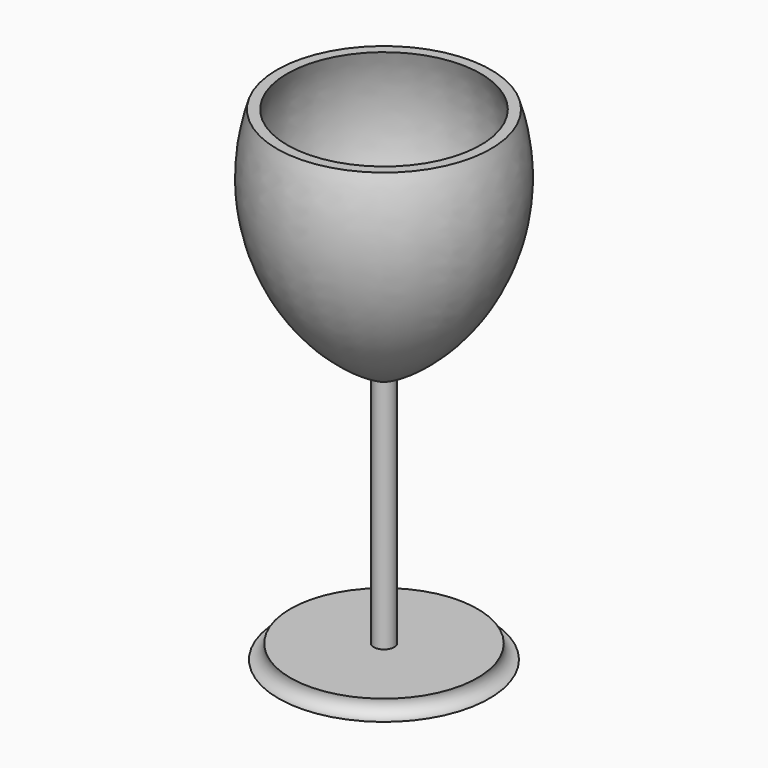
from build123d import *


with BuildPart() as f1:
    # F0 (on Front) → F1 (revolve)
    with BuildSketch(Plane.XZ):
        with BuildLine():
            Line((-29.559251, -62.896751), (0, -62.896751))
            Line((0, -62.896751), (0, 10.668001))
            ThreePointArc((0, 10.668001), (-26.629093, 36.087412), (-27.114501, 72.898))
            Line((-27.114501, 72.898), (-30.003751, 72.898))
            ThreePointArc((-30.003751, 72.898), (-28.443504, 35.060289), (-2.889251, 7.112))
            Line((-2.889251, 7.112), (-2.889251, -58.896251))
            Line((-2.889251, -58.896251), (-26.2255, -58.896251))
            ThreePointArc((-26.2255, -58.896251), (-26.955509, -61.677224), (-29.559251, -62.896751))
        make_face()
    revolve(axis=Axis((0, 0, -26.114375), (0, 0, -1)))


solid = f1.part
